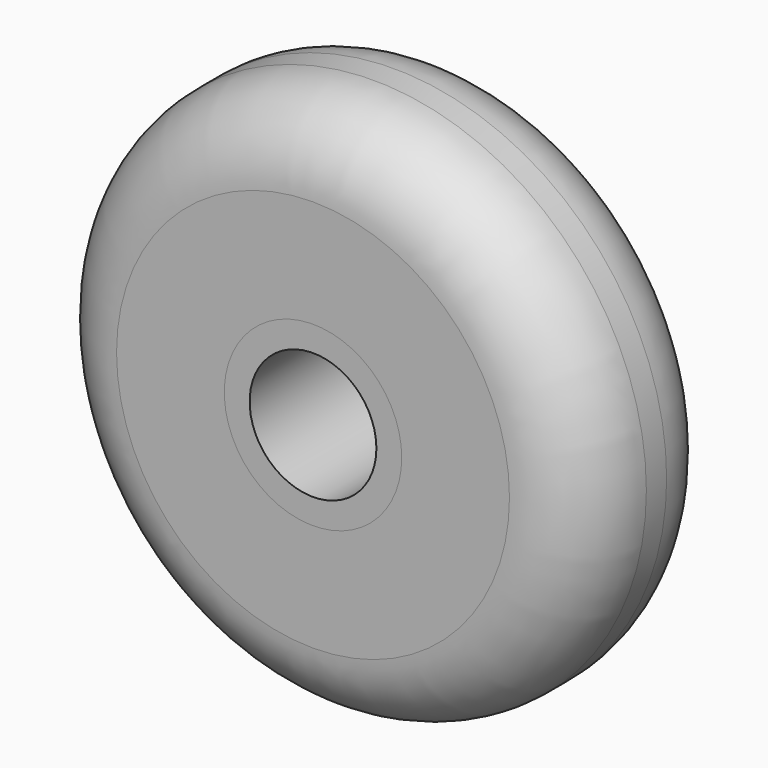
from build123d import *

# Parameters (mm, degrees)
F0_R     = 10.75
F0_R_2   = 7
F1_DEPTH = 7
F2_R     = 3
F3_R     = 7
F3_R_2   = 3.5
F4_DEPTH = 7
F5_R     = 3.5
F5_R_2   = 2.5
F6_DEPTH = 7


with BuildPart() as f1:
    # F0 (on Front) → F1 (new body)
    with BuildSketch(Plane.XZ):
        Circle(F0_R)
        Circle(F0_R_2, mode=Mode.SUBTRACT)
    extrude(amount=F1_DEPTH)

    # F2
    f2_edges = [f1.edges().sort_by_distance(p)[0] for p in [
        (-10.75, -7, 0),
        (-10.75, 0, 0),
    ]]
    fillet(f2_edges, radius=F2_R)

    # F3 (on face) → F4 (join)
    with BuildSketch(Plane.XZ.offset(7)):
        Circle(F3_R)
        Circle(F3_R_2, mode=Mode.SUBTRACT)
    extrude(amount=-F4_DEPTH)


with BuildPart() as f6:
    # F5 (on face) → F6 (new body)
    with BuildSketch(Plane.XZ.offset(7)):
        Circle(F5_R)
        Circle(F5_R_2, mode=Mode.SUBTRACT)
    extrude(amount=-F6_DEPTH)


solid = Compound([f1.part, f6.part])
